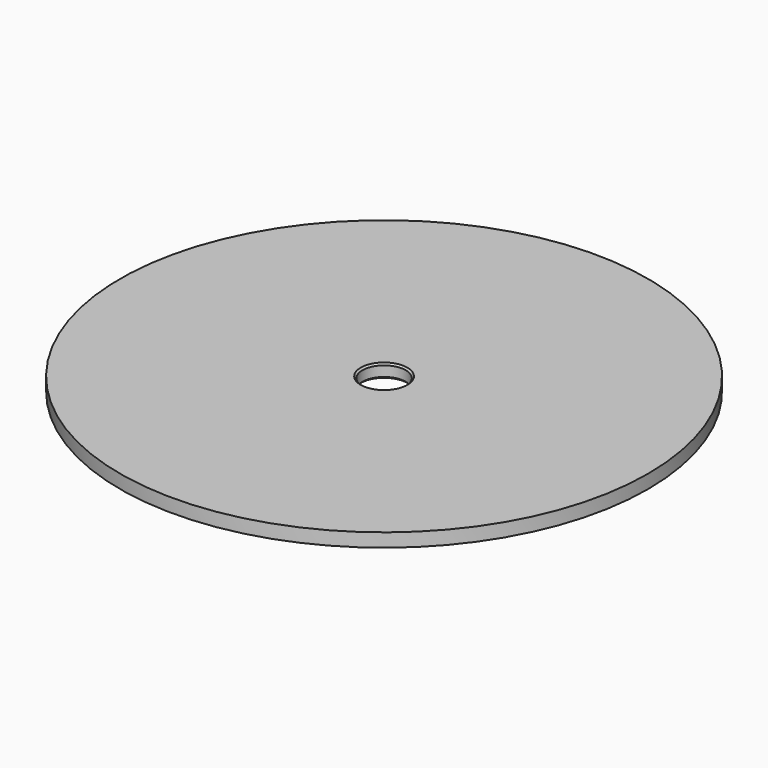
from build123d import *

# Parameters (mm, degrees)
SKETCH007_R     = 39
PAD002_DEPTH    = 2
SKETCH005_R     = 3.2
POCKET003_DEPTH = 2
CHAMFER001_SIZE = 0.25


with BuildPart() as part:
    # Sketch007 → Pad002 (new body)
    with BuildSketch(Plane.XY):
        Circle(SKETCH007_R)
    extrude(amount=PAD002_DEPTH)

    # Sketch005 → Pocket003 (cut)
    with BuildSketch(Plane.XY):
        Circle(SKETCH005_R)
    extrude(amount=POCKET003_DEPTH, mode=Mode.SUBTRACT)

    # Chamfer001
    chamfer001_edges = [part.edges().sort_by_distance(p)[0] for p in [
        (-3.2, 0, 2),
        (-3.2, 0, 0),
    ]]
    chamfer(chamfer001_edges, length=CHAMFER001_SIZE)


solid = part.part
